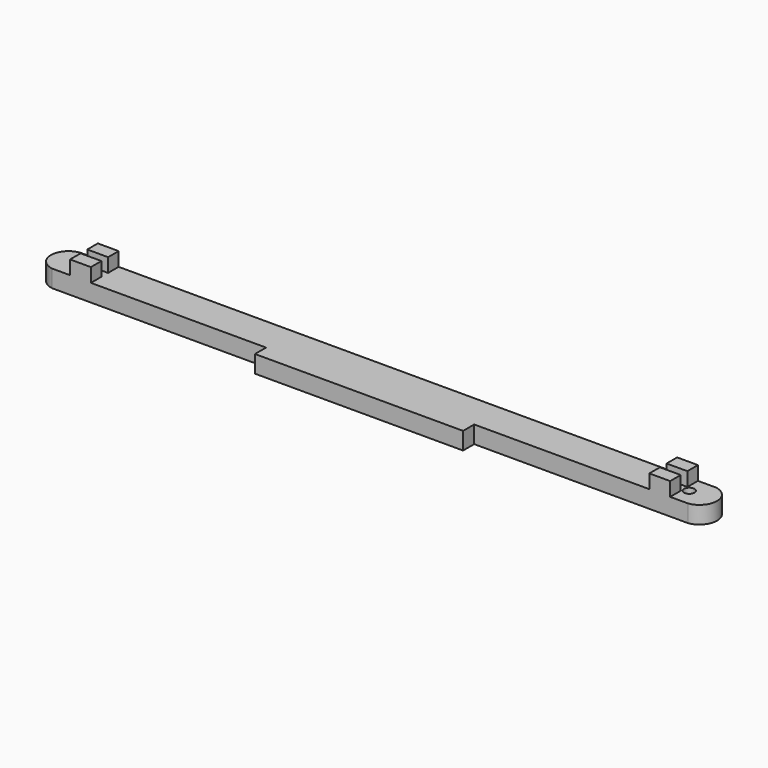
from build123d import *

# Parameters (mm, degrees)
F0_R     = 0.75
F1_DEPTH = 2.5
F2_W     = 3
F2_H     = 1.9
F3_DEPTH = 2


with BuildPart() as f1:
    # F0 (on Top) → F1 (new body)
    with BuildSketch(Plane.XY):
        with BuildLine():
            Line((45.828488, 2.5), (-45.828488, 2.5))
            ThreePointArc((-45.828488, 2.5), (-48, 0), (-45.828488, -2.5))
            Line((-45.828488, -2.5), (-15, -2.5))
            Line((-15, -2.5), (-15, -4.5))
            Line((-15, -4.5), (15, -4.5))
            Line((15, -4.5), (15, -2.5))
            Line((15, -2.5), (45.828488, -2.5))
            ThreePointArc((45.828488, -2.5), (48, 0), (45.828488, 2.5))
        make_face()
        with Locations((-44, 0)):
            Circle(F0_R, mode=Mode.SUBTRACT)
        with Locations((44, 0)):
            Circle(F0_R, mode=Mode.SUBTRACT)
    extrude(amount=F1_DEPTH)

    # F2 (on face) → F3 (join)
    with BuildSketch(Plane.XY.offset(2.5)):
        with Locations((-41.75, 1.55)):
            Rectangle(F2_W, F2_H)
        with Locations((-41.75, -1.55)):
            Rectangle(F2_W, F2_H)
        with Locations((41.75, -1.55)):
            Rectangle(F2_W, F2_H)
        with Locations((41.75, 1.55)):
            Rectangle(F2_W, F2_H)
    extrude(amount=F3_DEPTH)


solid = f1.part
